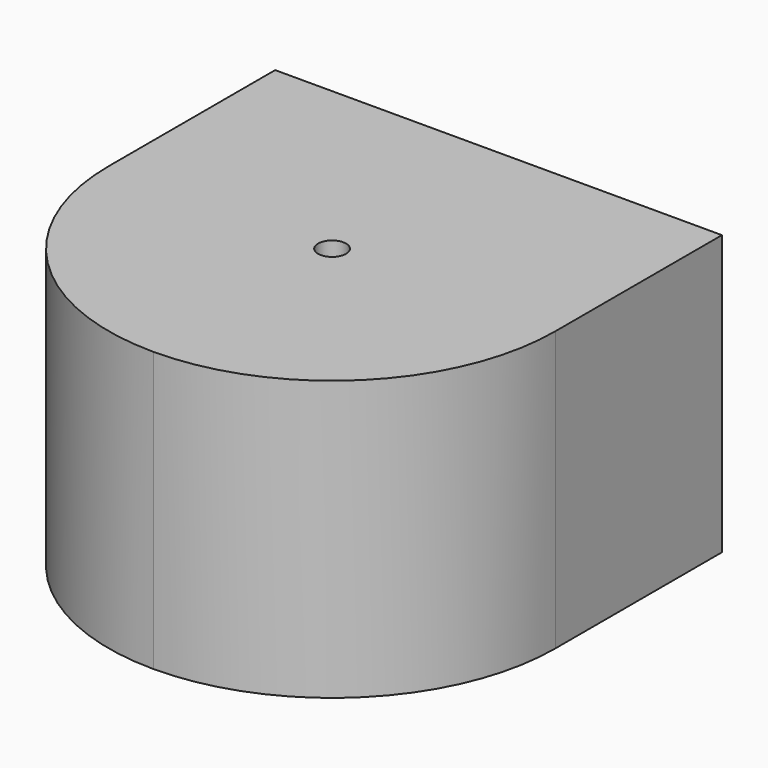
from build123d import *

# Parameters (mm, degrees)
F0_W     = 101.6
F0_H     = 63.5
F1_DEPTH = 49.0601
F3_DEPTH = 63.501
F5_D     = 6.35


with BuildPart() as f1:
    # F0 (on Front) → F1 (new body, symmetric)
    with BuildSketch(Plane.XZ):
        with Locations((25.231418, -31.75)):
            Rectangle(F0_W, F0_H)
    extrude(amount=F1_DEPTH, both=True)

    # F2 (on face) → F3 (cut, through all)
    with BuildSketch(Plane.XY):
        with BuildLine():
            ThreePointArc((25.231418, -49.0601), (-10.689607, -34.181124), (-25.568582, 1.7399))
            Line((-25.568582, 1.7399), (-25.568582, -49.0601))
            Line((-25.568582, -49.0601), (25.231418, -49.0601))
        make_face()
        with BuildLine():
            Line((76.031418, -49.0601), (76.031418, 1.7399))
            ThreePointArc((76.031418, 1.7399), (61.152442, -34.181124), (25.231418, -49.0601))
            Line((25.231418, -49.0601), (76.031418, -49.0601))
        make_face()
    extrude(amount=-F3_DEPTH, mode=Mode.SUBTRACT)

    # F5 (through all)
    with Locations(Plane(origin=(0, 0, -63.5), x_dir=(1, 0, 0), z_dir=(0, 0, -1))):
        with Locations((25.231418, -1.7399)):
            Hole(F5_D / 2)


solid = f1.part
